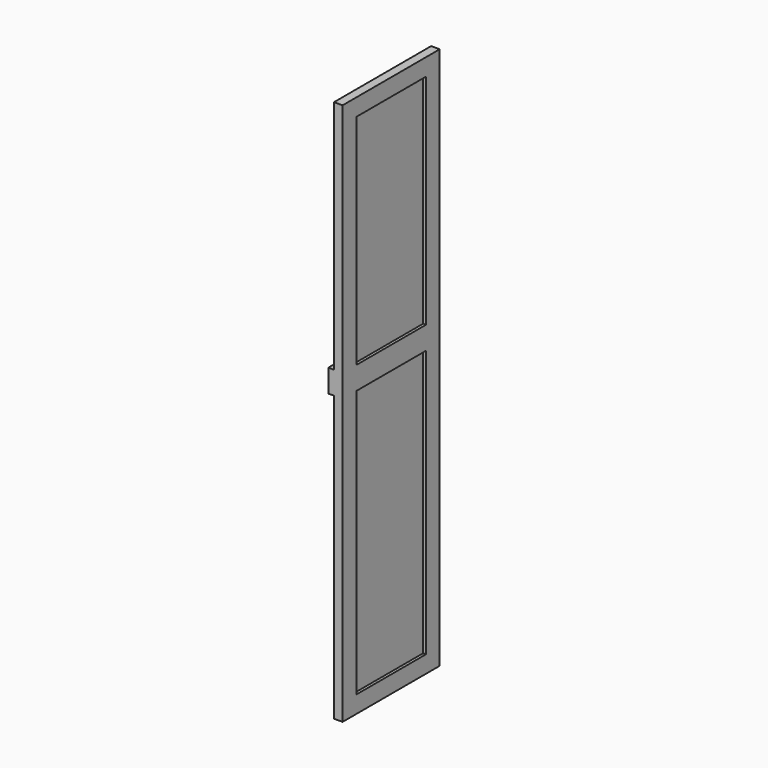
from build123d import *

# Parameters (mm, degrees)
F0_W     = 425
F0_H     = 1900
F1_DEPTH = 30
F2_W     = 305
F2_H     = 764.579544
F2_H_2   = 935.420456
F3_DEPTH = 10
F4_W     = 305
F4_H     = 764.579544
F4_H_2   = 935.420456
F5_DEPTH = 10
F6_W     = 60
F6_H     = 80
F7_DEPTH = 20


with BuildPart() as f1:
    # F0 (on Right) → F1 (new body)
    with BuildSketch(Plane.YZ):
        with Locations((212.5, 950)):
            Rectangle(F0_W, F0_H)
    extrude(amount=F1_DEPTH)

    # F2 (on face) → F3 (cut)
    with BuildSketch(Plane.YZ.offset(30)):
        with Locations((212.5, 1457.710228)):
            Rectangle(F2_W, F2_H)
        with Locations((212.5, 527.710228)):
            Rectangle(F2_W, F2_H_2)
    extrude(amount=-F3_DEPTH, mode=Mode.SUBTRACT)

    # F4 (on face) → F5 (cut)
    with BuildSketch(Plane(origin=(0, 0, 0), x_dir=(0, -1, 0), z_dir=(-1, 0, 0))):
        with Locations((-212.5, 1457.710228)):
            Rectangle(F4_W, F4_H)
        with Locations((-212.5, 527.710228)):
            Rectangle(F4_W, F4_H_2)
    extrude(amount=-F5_DEPTH, mode=Mode.SUBTRACT)

    # F6 (on face) → F7 (join)
    with BuildSketch(Plane(origin=(0, 0, 0), x_dir=(0, -1, 0), z_dir=(-1, 0, 0))):
        with Locations((-395, 1035.420456)):
            Rectangle(F6_W, F6_H)
        with Locations((-30, 1035.420456)):
            Rectangle(F6_W, F6_H)
    extrude(amount=F7_DEPTH)


solid = f1.part
